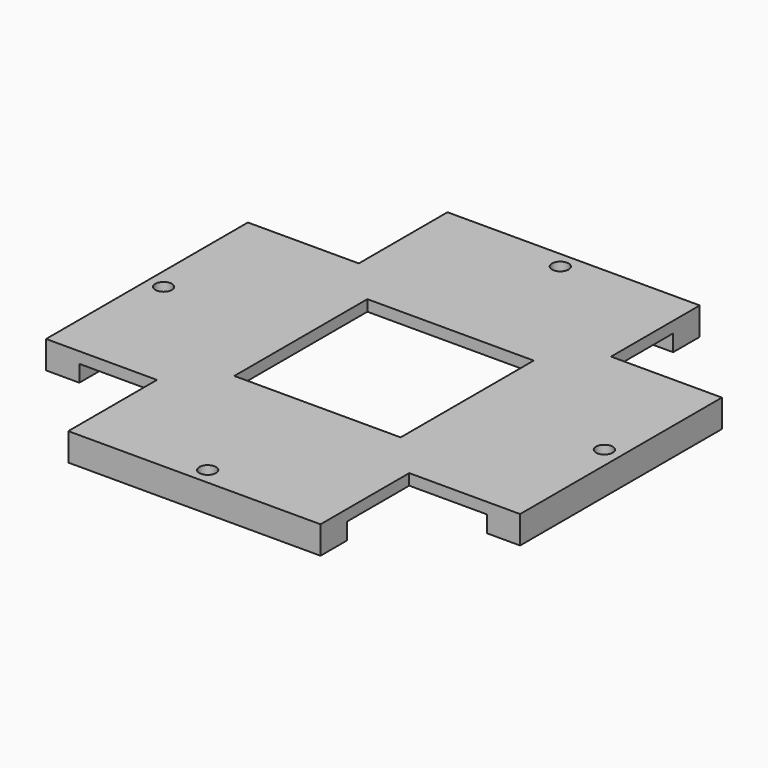
from build123d import *

# Parameters (mm, degrees)
SKETCH033_W             = 30
SKETCH033_H             = 30
PAD009008_DEPTH         = 2
SKETCH034_W             = 45.5
SKETCH034_H             = 6
SKETCH034_W_2           = 6
SKETCH034_H_2           = 45.5
PAD009009_DEPTH         = 3
SKETCH035_R             = 1.5
POCKET003006_DEPTH      = 0.001
POCKET003006_DEPTH_BACK = 5.001


with BuildPart() as part:
    # Sketch033 → Pad009008 (new body)
    with BuildSketch(Plane(origin=(0, 0, 5), x_dir=(1, 0, 0), z_dir=(0, 0, -1))):
        Polygon((-22.75, 42.75), (22.75, 42.75), (22.75, 22.75), (42.75, 22.75), (42.75, -22.75), (22.75, -22.75), (22.75, -42.75), (-22.75, -42.75), (-22.75, -22.75), (-42.75, -22.75), (-42.75, 22.75), (-22.75, 22.75), align=None)
        Rectangle(SKETCH033_W, SKETCH033_H, mode=Mode.SUBTRACT)
    extrude(amount=PAD009008_DEPTH)

    # Sketch034 → Pad009009 (join)
    with BuildSketch(Plane(origin=(0, 0, 3), x_dir=(1, 0, 0), z_dir=(0, 0, -1))):
        with Locations((0, 39.75)):
            Rectangle(SKETCH034_W, SKETCH034_H)
        with Locations((0, -39.75)):
            Rectangle(SKETCH034_W, SKETCH034_H)
        with Locations((-39.75, 0)):
            Rectangle(SKETCH034_W_2, SKETCH034_H_2)
        with Locations((39.75, 0)):
            Rectangle(SKETCH034_W_2, SKETCH034_H_2)
    extrude(amount=PAD009009_DEPTH)

    # Sketch035 → Pocket003006 (cut, two sides)
    with BuildSketch(Plane.XY) as pocket003006_sk:
        with Locations((-39.75, 0)):
            Circle(SKETCH035_R)
        with Locations((0, 39.75)):
            Circle(SKETCH035_R)
        with Locations((39.75, 0)):
            Circle(SKETCH035_R)
        with Locations((0, -39.75)):
            Circle(SKETCH035_R)
    extrude(amount=-POCKET003006_DEPTH, mode=Mode.SUBTRACT)
    extrude(pocket003006_sk.sketch, amount=POCKET003006_DEPTH_BACK, mode=Mode.SUBTRACT)


solid = part.part
